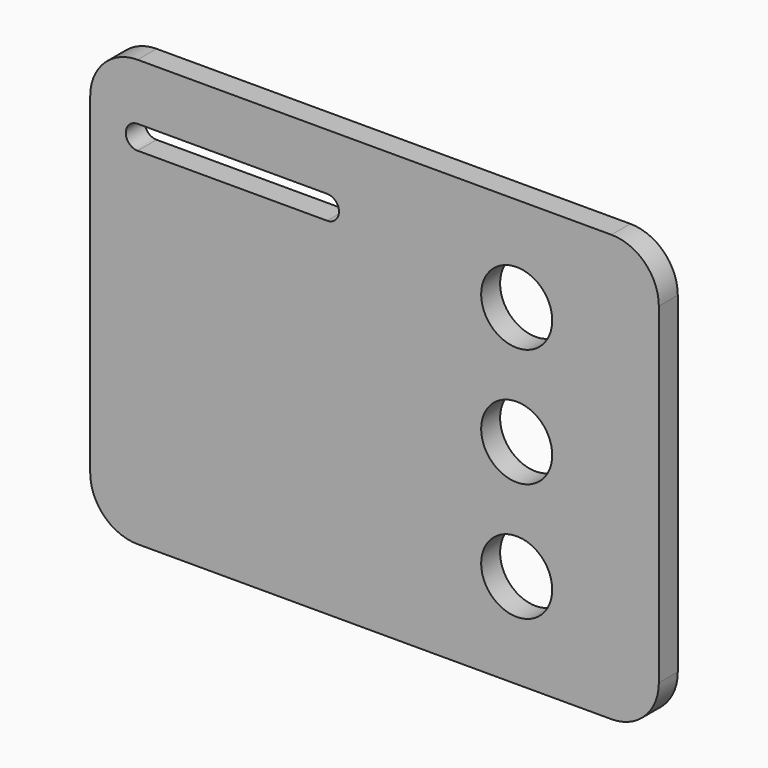
from build123d import *

# Parameters (mm, degrees)
F1_DEPTH = 6.35
F3_D     = 19.05
F5_DEPTH = 6.351


with BuildPart() as f1:
    # F0 (on Front) → F1 (new body)
    with BuildSketch(Plane.XZ):
        with BuildLine():
            ThreePointArc((76.2, 44.45), (72.480256, 53.430256), (63.5, 57.15))
            Line((63.5, 57.15), (-63.5, 57.15))
            ThreePointArc((-63.5, 57.15), (-72.480256, 53.430256), (-76.2, 44.45))
            Line((-76.2, 44.45), (-76.2, -44.45))
            ThreePointArc((-76.2, -44.45), (-72.480256, -53.430256), (-63.5, -57.15))
            Line((-63.5, -57.15), (63.5, -57.15))
            ThreePointArc((63.5, -57.15), (72.480256, -53.430256), (76.2, -44.45))
            Line((76.2, -44.45), (76.2, 44.45))
        make_face()
    extrude(amount=F1_DEPTH)

    # F3 (through all)
    with Locations(Plane.XZ.offset(6.35)):
        with Locations((38.1, 31.75), (38.1, 0), (38.1, -31.75)):
            Hole(F3_D / 2)

    # F4 (on face) → F5 (cut, through all)
    with BuildSketch(Plane.XZ.offset(6.35)):
        with BuildLine():
            Line((-12.7, 42.037003), (-63.5, 42.037003))
            ThreePointArc((-63.5, 42.037003), (-66.675, 38.862003), (-63.5, 35.687003))
            Line((-63.5, 35.687003), (-12.7, 35.687003))
            ThreePointArc((-12.7, 35.687003), (-9.525, 38.862003), (-12.7, 42.037003))
        make_face()
    extrude(amount=-F5_DEPTH, mode=Mode.SUBTRACT)


solid = f1.part
